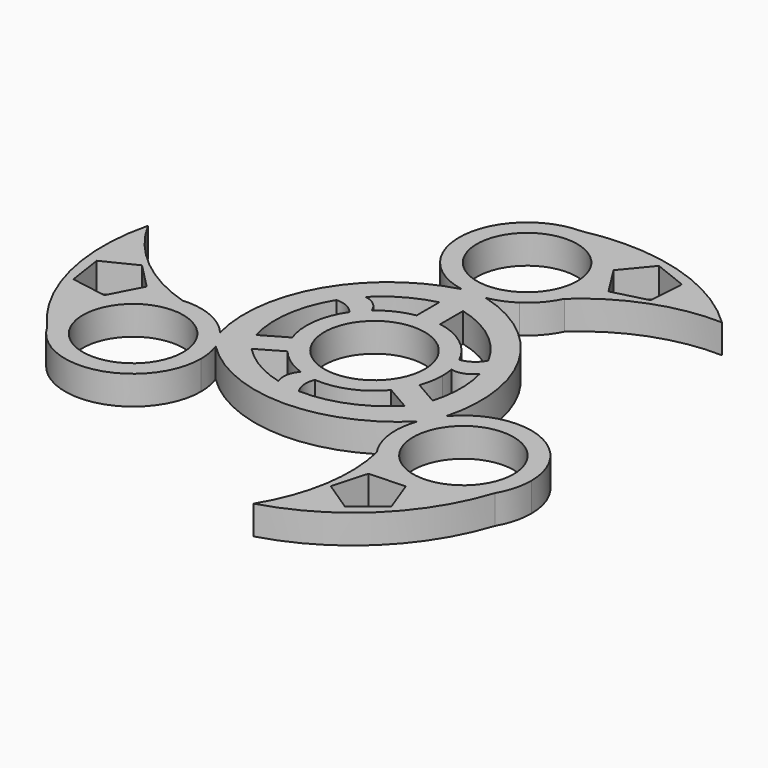
from build123d import *

# Parameters (mm, degrees)
F1_DEPTH  = 6.35
F2_R      = 11.0236
F3_DEPTH  = 25.4
F4_R      = 11.0236
F5_DEPTH  = 25.4
F7_DEPTH  = 6.35
F9_DEPTH  = 6.35
F11_DEPTH = 25.4


with BuildPart() as f1:
    # F0 (on Top) → F1 (new body)
    with BuildSketch(Plane.XY):
        with BuildLine():
            ThreePointArc((39.9699173868, 45.3715771437), (21.4086371945, 56.0642096985), (0, 56.787927047))
            ThreePointArc((0, 56.787927047), (10.5518009423, 52.4172279893), (14.9225, 41.865427047))
            ThreePointArc((14.9225, 41.865427047), (14.5429525108, 38.5212472494), (13.4236173036, 35.3471830552))
            ThreePointArc((13.4236173036, 35.3471830552), (25.7159889241, 42.956648129), (39.9699173868, 45.3715771437))
        make_face()
        with BuildLine():
            Line((11.4783198204, -9.5356793335), (13.9973004553, -5.1726768904))
            ThreePointArc((13.9973004553, -5.1726768904), (14.6893791954, -2.6273836992), (14.9225, 0))
            ThreePointArc((14.9225, 0), (11.4076836995, 9.6200706267), (2.518980635, 14.7083562239))
            Line((2.518980635, 14.7083562239), (-2.518980635, 14.7083562239))
            ThreePointArc((-2.518980635, 14.7083562239), (-12.923264088, 7.46125), (-13.9973004553, -5.1726768904))
            Line((-13.9973004553, -5.1726768904), (-11.4783198204, -9.5356793335))
            ThreePointArc((-11.4783198204, -9.5356793335), (0, -14.9225), (11.4783198204, -9.5356793335))
        make_face()
        with BuildLine():
            ThreePointArc((-59.2778971096, 11.9291752723), (-59.2573484392, -9.4916811784), (-49.179787451, -28.3939635235))
            ThreePointArc((-49.179787451, -28.3939635235), (-49.4383993618, -13.9384908074), (-37.3233671298, -6.048397932))
            ThreePointArc((-37.3233671298, -6.048397932), (-50.0595430032, 0.7923756272), (-59.2778971096, 11.9291752723))
        make_face()
        with BuildLine():
            Line((24.7782035426, -11.39703419), (13.9973004553, -5.1726768904))
            ThreePointArc((13.9973004553, -5.1726768904), (12.923264088, -7.46125), (11.4783198204, -9.5356793335))
            Line((11.4783198204, -9.5356793335), (11.4007932052, -9.6699593699))
            Line((11.4007932052, -9.6699593699), (22.205423221, -15.9080154181))
            ThreePointArc((22.205423221, -15.9080154181), (23.2940753375, -13.5397474451), (24.7782035426, -11.39703419))
        make_face()
        with BuildLine():
            ThreePointArc((-2.518980635, 14.7083562239), (0, 14.9225), (2.518980635, 14.7083562239))
            Line((2.518980635, 14.7083562239), (2.6740338653, 14.7083562239))
            Line((2.6740338653, 14.7083562239), (2.6740338653, 27.1844683202))
            ThreePointArc((2.6740338653, 27.1844683202), (0.0787275795, 26.9431347225), (-2.518980635, 27.1570708231))
            Line((-2.518980635, 27.1570708231), (-2.518980635, 14.7083562239))
        make_face()
        with BuildLine():
            Line((-22.2592229077, -15.7600366331), (-11.4783198204, -9.5356793335))
            ThreePointArc((-11.4783198204, -9.5356793335), (-12.923264088, -7.46125), (-13.9973004553, -5.1726768904))
            Line((-13.9973004553, -5.1726768904), (-14.0748270705, -5.038396854))
            Line((-14.0748270705, -5.038396854), (-24.8794570864, -11.2764529022))
            ThreePointArc((-24.8794570864, -11.2764529022), (-23.372802917, -13.4033872774), (-22.2592229077, -15.7600366331))
        make_face()
        with BuildLine():
            ThreePointArc((0, 56.787927047), (-14.8688676772, 43.1294603729), (-2.518980635, 27.1570708231))
            Line((-2.518980635, 27.1570708231), (-2.518980635, 27.4083562239))
            Line((-2.518980635, 27.4083562239), (2.6740338653, 27.4083562239))
            Line((2.6740338653, 27.4083562239), (2.6740338653, 27.1844683202))
            ThreePointArc((2.6740338653, 27.1844683202), (5.574874939, 28.0233977281), (8.2474275307, 29.429151665))
            ThreePointArc((8.2474275307, 29.429151665), (10.6805834625, 32.5236842879), (13.4236173036, 35.3471830552))
            ThreePointArc((13.4236173036, 35.3471830552), (14.5429525108, 38.5212472494), (14.9225, 41.865427047))
            ThreePointArc((14.9225, 41.865427047), (10.5518009423, 52.4172279893), (0, 56.787927047))
        make_face()
        with BuildLine():
            ThreePointArc((19.3079797228, -57.3007524159), (37.8487112447, -46.5725285201), (49.179787451, -28.3939635235))
            ThreePointArc((49.179787451, -28.3939635235), (36.7902868106, -35.845664366), (23.8997498262, -29.2987851232))
            ThreePointArc((23.8997498262, -29.2987851232), (24.3435540791, -43.7490237562), (19.3079797228, -57.3007524159))
        make_face()
        with BuildLine():
            ThreePointArc((-21.334023363, -20.9327135235), (-21.5671441676, -18.3053298244), (-22.2592229077, -15.7600366331))
            Line((-22.2592229077, -15.7600366331), (-22.4768424484, -15.8856793335))
            Line((-22.4768424484, -15.8856793335), (-25.0733496986, -11.388396854))
            Line((-25.0733496986, -11.388396854), (-24.8794570864, -11.2764529022))
            ThreePointArc((-24.8794570864, -11.2764529022), (-27.0564118024, -9.183715544), (-29.6101067191, -7.5720940751))
            ThreePointArc((-29.6101067191, -7.5720940751), (-33.5066285492, -7.0121855382), (-37.3233671298, -6.048397932))
            ThreePointArc((-37.3233671298, -6.048397932), (-49.4383993618, -13.9384908074), (-49.179787451, -28.3939635235))
            ThreePointArc((-49.179787451, -28.3939635235), (-32.3942961625, -35.3467416663), (-21.334023363, -20.9327135235))
        make_face()
        with BuildLine():
            ThreePointArc((51.179023363, -20.9327135235), (41.3258319318, -6.8976461249), (24.7782035426, -11.39703419))
            Line((24.7782035426, -11.39703419), (24.9958230834, -11.5226768904))
            Line((24.9958230834, -11.5226768904), (22.3993158332, -16.0199593699))
            Line((22.3993158332, -16.0199593699), (22.205423221, -15.9080154181))
            ThreePointArc((22.205423221, -15.9080154181), (21.4815368634, -18.8396821842), (21.3626791884, -21.8570575899))
            ThreePointArc((21.3626791884, -21.8570575899), (22.8260450868, -25.5114987497), (23.8997498262, -29.2987851232))
            ThreePointArc((23.8997498262, -29.2987851232), (36.7902868106, -35.845664366), (49.179787451, -28.3939635235))
            ThreePointArc((49.179787451, -28.3939635235), (50.6705515058, -24.794940724), (51.179023363, -20.9327135235))
        make_face()
        with BuildLine():
            ThreePointArc((13.4236173036, 35.3471830552), (10.6805834625, 32.5236842879), (8.2474275307, 29.429151665))
            ThreePointArc((8.2474275307, 29.429151665), (11.2322891672, 32.0411364205), (13.4236173036, 35.3471830552))
        make_face()
        with BuildLine():
            ThreePointArc((-37.3233671298, -6.048397932), (-33.5066285492, -7.0121855382), (-29.6101067191, -7.5720940751))
            ThreePointArc((-29.6101067191, -7.5720940751), (-33.3645826899, -6.2931204488), (-37.3233671298, -6.048397932))
        make_face()
        with BuildLine():
            ThreePointArc((23.8997498262, -29.2987851232), (22.8260450868, -25.5114987497), (21.3626791884, -21.8570575899))
            ThreePointArc((21.3626791884, -21.8570575899), (22.1322935227, -25.7480159717), (23.8997498262, -29.2987851232))
        make_face()
        with BuildLine():
            Line((24.9958230834, -11.5226768904), (24.7782035426, -11.39703419))
            ThreePointArc((24.7782035426, -11.39703419), (23.2940753375, -13.5397474451), (22.205423221, -15.9080154181))
            Line((22.205423221, -15.9080154181), (22.3993158332, -16.0199593699))
            Line((22.3993158332, -16.0199593699), (24.9958230834, -11.5226768904))
        make_face()
        with BuildLine():
            Line((-22.4768424484, -15.8856793335), (-22.2592229077, -15.7600366331))
            ThreePointArc((-22.2592229077, -15.7600366331), (-23.372802917, -13.4033872774), (-24.8794570864, -11.2764529022))
            Line((-24.8794570864, -11.2764529022), (-25.0733496986, -11.388396854))
            Line((-25.0733496986, -11.388396854), (-22.4768424484, -15.8856793335))
        make_face()
        with BuildLine():
            Line((-2.518980635, 14.7083562239), (2.518980635, 14.7083562239))
            ThreePointArc((2.518980635, 14.7083562239), (0, 14.9225), (-2.518980635, 14.7083562239))
        make_face()
        with BuildLine():
            ThreePointArc((-13.9973004553, -5.1726768904), (-12.923264088, -7.46125), (-11.4783198204, -9.5356793335))
            Line((-11.4783198204, -9.5356793335), (-13.9973004553, -5.1726768904))
        make_face()
        with BuildLine():
            Line((-2.518980635, 27.4083562239), (-2.518980635, 27.1570708231))
            ThreePointArc((-2.518980635, 27.1570708231), (0.0787275795, 26.9431347225), (2.6740338653, 27.1844683202))
            Line((2.6740338653, 27.1844683202), (2.6740338653, 27.4083562239))
            Line((2.6740338653, 27.4083562239), (-2.518980635, 27.4083562239))
        make_face()
        with BuildLine():
            ThreePointArc((11.4783198204, -9.5356793335), (12.923264088, -7.46125), (13.9973004553, -5.1726768904))
            Line((13.9973004553, -5.1726768904), (11.4783198204, -9.5356793335))
        make_face()
    extrude(amount=F1_DEPTH)

    # F2 (on face) → F3 (cut)
    with BuildSketch(Plane.XY.offset(6.35)):
        with Locations((0, 41.865427047)):
            Circle(F2_R)
        with Locations((36.256523363, -20.9327135235)):
            Circle(F2_R)
        with Locations((-36.256523363, -20.9327135235)):
            Circle(F2_R)
    extrude(amount=-F3_DEPTH, mode=Mode.SUBTRACT)

    # F4 (on face) → F5 (cut)
    with BuildSketch(Plane.XY.offset(6.35)):
        Circle(F4_R)
    extrude(amount=-F5_DEPTH, mode=Mode.SUBTRACT)

    # F6 (on Top) → F7 (join)
    with BuildSketch(Plane.XY):
        with BuildLine():
            Line((-2.518980635, 20.9327135235), (-2.518980635, 27.1570708231))
            ThreePointArc((-2.518980635, 27.1570708231), (-21.6236198706, 12.5506950245), (-24.8794570864, -11.2764529022))
            Line((-24.8794570864, -11.2764529022), (-19.4771420784, -8.1574248781))
            ThreePointArc((-19.4771420784, -8.1574248781), (-17.1752258506, 9.9886362226), (-2.518980635, 20.9327135235))
        make_face()
        with BuildLine():
            ThreePointArc((2.6740338653, 20.9464122721), (17.2380256432, 9.8798637911), (19.387751999, -8.2848555402))
            Line((19.387751999, -8.2848555402), (24.7782035426, -11.39703419))
            ThreePointArc((24.7782035426, -11.39703419), (21.6810306616, 12.4512566175), (2.6740338653, 27.1844683202))
            Line((2.6740338653, 27.1844683202), (2.6740338653, 20.9464122721))
        make_face()
        with BuildLine():
            ThreePointArc((16.8031082131, -12.788987394), (-0.0627997926, -19.8685000137), (-16.868771364, -12.6478579833))
            Line((-16.868771364, -12.6478579833), (-22.2592229077, -15.7600366331))
            ThreePointArc((-22.2592229077, -15.7600366331), (-0.057410791, -25.0019516419), (22.205423221, -15.9080154181))
            Line((22.205423221, -15.9080154181), (16.8031082131, -12.788987394))
        make_face()
    extrude(amount=F7_DEPTH)

    # F8 (on Top) → F9 (join)
    with BuildSketch(Plane.XY):
        with BuildLine():
            Line((-11.469233202, 6.8651486084), (-9.5382659064, 10.7402523643))
            ThreePointArc((-9.5382659064, 10.7402523643), (-11.469233202, 13.7334678675), (-14.9203554134, 14.6153574454))
            Line((-14.9203554134, 14.6153574454), (-18.1496096475, 10.3096855748))
            ThreePointArc((-18.1496096475, 10.3096855748), (-14.0887724556, 9.9850523749), (-11.469233202, 6.8651486084))
        make_face()
        with BuildLine():
            Line((11.6800096966, 6.5000730107), (14.0704643438, 2.8902544008))
            ThreePointArc((14.0704643438, 2.8902544008), (17.6281486563, 3.0659133811), (20.1174485398, 5.6137280988))
            Line((20.1174485398, 5.6137280988), (18.0032544366, 10.5631802361))
            ThreePointArc((18.0032544366, 10.5631802361), (15.6916952426, 7.2087086672), (11.6800096966, 6.5000730107))
        make_face()
        with BuildLine():
            Line((-0.2107764946, -13.3652216191), (-4.5321984374, -13.6305067652))
            ThreePointArc((-4.5321984374, -13.6305067652), (-6.1589154543, -16.7993812486), (-5.1970931264, -20.2290855441))
            Line((-5.1970931264, -20.2290855441), (0.146355211, -20.8728658109))
            ThreePointArc((0.146355211, -20.8728658109), (-1.602922787, -17.1937610422), (-0.2107764946, -13.3652216191))
        make_face()
    extrude(amount=F9_DEPTH)

    # F10 (on face) → F11 (cut)
    with BuildSketch(Plane.XY.offset(6.35)):
        Polygon((-45.3443394157, -5.8470536995), (-50.9034361544, -0.1712185392), (-58.0193315347, -3.7043041955), (-56.8581000013, -11.5637063766), (-49.0245240646, -12.8879983994), align=None)
        Polygon((27.7358667489, -36.3458230021), (25.5999976818, -43.9980595801), (32.217687304, -48.3940629219), (38.4435134847, -43.4587058238), (35.6735960501, -36.0124840487), align=None)
        Polygon((13.3509280145, 48.9004824481), (17.6084726668, 42.1928767016), (25.3034384727, 44.1692781193), (25.8016442307, 52.0983671174), (18.4145865166, 55.0224122004), align=None)
    extrude(amount=-F11_DEPTH, mode=Mode.SUBTRACT)


solid = f1.part
